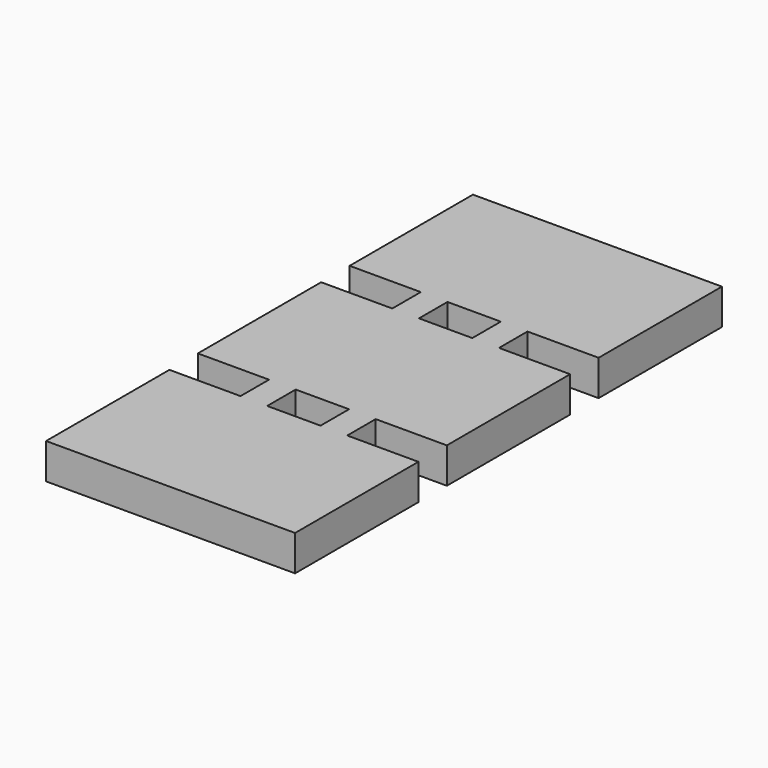
from build123d import *

# Parameters (mm, degrees)
F0_W     = 9.525
F0_H     = 6.35
F1_DEPTH = 6.35


with BuildPart() as f1:
    # F0 (on Top) → F1 (new body)
    with BuildSketch(Plane.XY):
        Polygon((-25.4, -23.469498), (-25.4, -50.986165), (19.05, -50.986165), (19.05, -23.469498), (6.35, -23.469498), (6.35, -17.119498), (19.05, -17.119498), (19.05, 10.397168), (6.35, 10.397168), (6.35, 16.747168), (19.05, 16.747168), (19.05, 44.263835), (-25.4, 44.263835), (-25.4, 16.747168), (-12.7, 16.747168), (-12.7, 10.397168), (-25.4, 10.397168), (-25.4, -17.119498), (-12.7, -17.119498), (-12.7, -23.469498), align=None)
        with Locations((-3.175, -20.294498)):
            Rectangle(F0_W, F0_H, mode=Mode.SUBTRACT)
        with Locations((-3.175, 13.572168)):
            Rectangle(F0_W, F0_H, mode=Mode.SUBTRACT)
    extrude(amount=F1_DEPTH)


solid = f1.part
